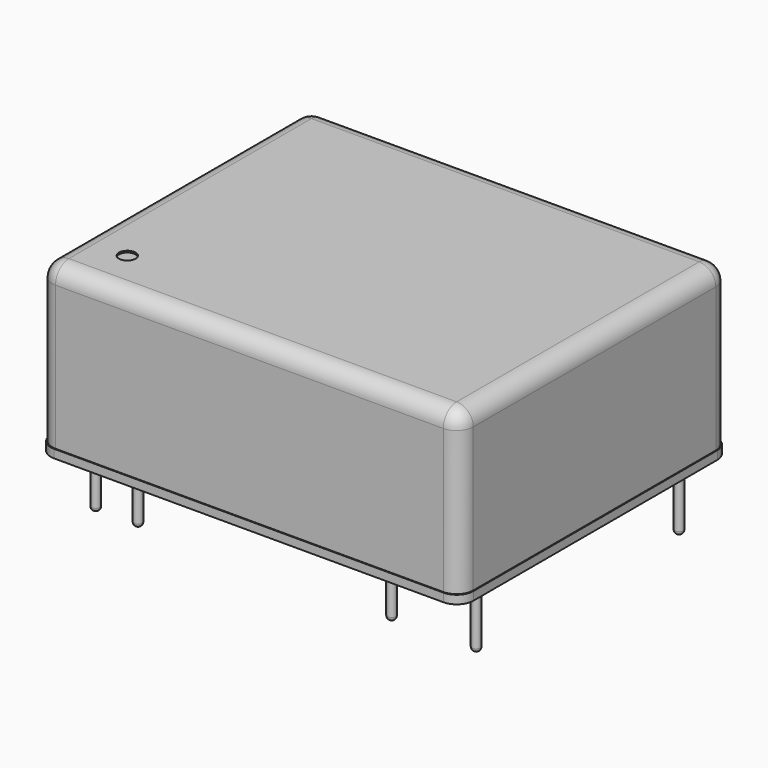
from build123d import *

# Parameters (mm, degrees)
F0_W     = 25.4
F0_H     = 20.32
F1_DEPTH = 0.508
F2_W     = 25.3
F2_H     = 20.22
F3_DEPTH = 9.652
F4_R     = 0.5
F5_DEPTH = 0.1
F6_R     = 1
F7_R     = 0.254
F8_DEPTH = 3.81
F9_R     = 0.254


with BuildPart() as f1:
    # F0 (on Top) → F1 (new body)
    with BuildSketch(Plane.XY):
        with Locations((12.7, 10.16)):
            Rectangle(F0_W, F0_H)
    extrude(amount=F1_DEPTH)

    # F2 (on face) → F3 (join)
    with BuildSketch(Plane.XY.offset(0.508)):
        with Locations((12.7, 10.16)):
            Rectangle(F2_W, F2_H)
    extrude(amount=F3_DEPTH)

    # F4 (on face) → F5 (cut)
    with BuildSketch(Plane.XY.offset(10.16)):
        with Locations((3, 3)):
            Circle(F4_R)
    extrude(amount=-F5_DEPTH, mode=Mode.SUBTRACT)

    # F6
    f6_edges = [f1.edges().sort_by_distance(p)[0] for p in [
        (25.35, 0.05, 5.334),
        (25.35, 20.27, 5.334),
        (0.05, 0.05, 5.334),
        (0.05, 20.27, 5.334),
        (25.4, 0, 0.254),
        (25.4, 20.32, 0.254),
        (0, 0, 0.254),
        (0, 20.32, 0.254),
        (0.05, 10.16, 10.16),
        (12.7, 20.27, 10.16),
        (25.35, 10.16, 10.16),
        (12.7, 0.05, 10.16),
    ]]
    fillet(f6_edges, radius=F6_R)

    # F7 (on Top) → F8 (join)
    with BuildSketch(Plane.XY):
        with Locations((1.27, 2.794)):
            Circle(F7_R)
        with Locations((3.81, 2.794)):
            Circle(F7_R)
        with Locations((1.27, 18.034)):
            Circle(F7_R)
        with Locations((3.81, 18.034)):
            Circle(F7_R)
        with Locations((19.05, 18.034)):
            Circle(F7_R)
        with Locations((24.13, 18.034)):
            Circle(F7_R)
        with Locations((19.05, 2.794)):
            Circle(F7_R)
        with Locations((24.13, 2.794)):
            Circle(F7_R)
    extrude(amount=-F8_DEPTH)

    # F9
    f9_edges = [f1.edges().sort_by_distance(p)[0] for p in [
        (1.016, 2.794, -3.81),
        (3.556, 2.794, -3.81),
        (23.876, 2.794, -3.81),
        (18.796, 2.794, -3.81),
        (23.876, 18.034, -3.81),
        (18.796, 18.034, -3.81),
        (3.556, 18.034, -3.81),
        (1.016, 18.034, -3.81),
    ]]
    fillet(f9_edges, radius=F9_R)


solid = f1.part
